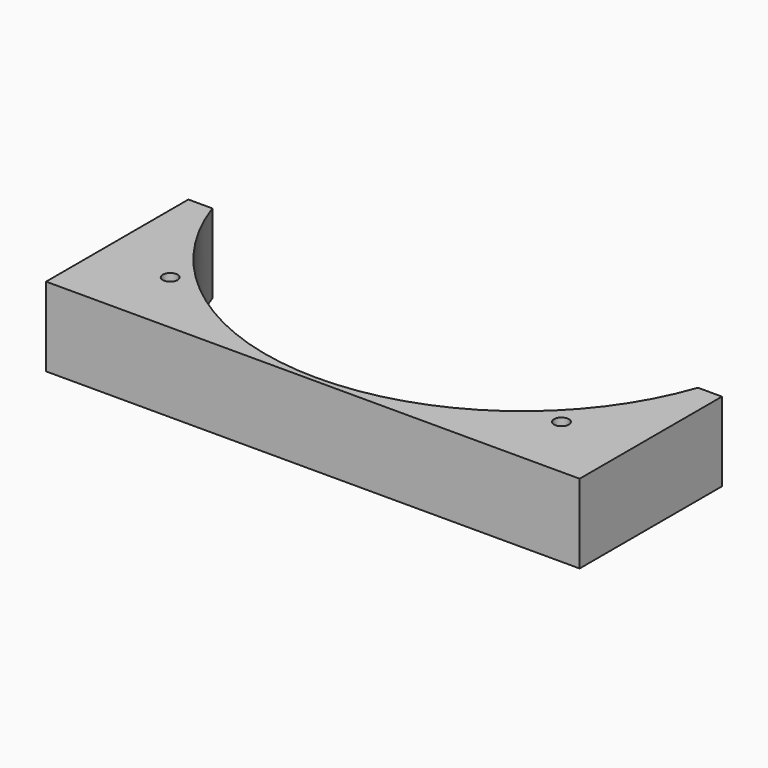
from build123d import *

# Parameters (mm, degrees)
CYLINDER1016_R               = 1.5
CYLINDER1016_DEPTH           = 50
CYLINDER1016_PLACEMENT_ANGLE = 45
CYLINDER1012_R               = 1.5
CYLINDER1012_DEPTH           = 50
CYLINDER1012_PLACEMENT_ANGLE = 135
CYLINDER1014_R               = 1.5
CYLINDER1014_DEPTH           = 50
CYLINDER1017_R               = 1.5
CYLINDER1017_DEPTH           = 50
CYLINDER1017_PLACEMENT_ANGLE = 225
CYLINDER1018_R               = 1.5
CYLINDER1018_DEPTH           = 50
CYLINDER1013_R               = 1.5
CYLINDER1013_DEPTH           = 50
CYLINDER1013_PLACEMENT_ANGLE = 45
CYLINDER1015_R               = 1.5
CYLINDER1015_DEPTH           = 50
CYLINDER1011_R               = 52
CYLINDER1011_DEPTH           = 16
BOX416_W                     = 108
BOX416_H                     = 36
BOX416_DEPTH                 = 16


with BuildPart() as obj1:
    # Cylinder1016 → Cylinder1016 (new body)
    with BuildSketch(Plane.XY):
        Circle(CYLINDER1016_R)
    extrude(amount=CYLINDER1016_DEPTH)


with BuildPart() as obj1_1:
    # Cylinder1016 placement: moved
    add(obj1.part.moved(Location((39.59798, -39.59798, 2))).rotate(Axis((39.59798, -39.59798, 2), (0, 0, 1)), CYLINDER1016_PLACEMENT_ANGLE))


with BuildPart() as obj2:
    # Cylinder1012 → Cylinder1012 (new body)
    with BuildSketch(Plane.XY):
        Circle(CYLINDER1012_R)
    extrude(amount=CYLINDER1012_DEPTH)


with BuildPart() as obj2_1:
    # Cylinder1012 placement: moved
    add(obj2.part.moved(Location((39.59798, 39.59798, 2))).rotate(Axis((39.59798, 39.59798, 2), (0, 0, 1)), CYLINDER1012_PLACEMENT_ANGLE))


with BuildPart() as obj3:
    # Cylinder1014 → Cylinder1014 (new body)
    with BuildSketch(Plane(origin=(0, 56, 2), x_dir=(-1, 0, 0), z_dir=(0, 0, 1))):
        Circle(CYLINDER1014_R)
    extrude(amount=CYLINDER1014_DEPTH)


with BuildPart() as obj4:
    # Cylinder1017 → Cylinder1017 (new body)
    with BuildSketch(Plane.XY):
        Circle(CYLINDER1017_R)
    extrude(amount=CYLINDER1017_DEPTH)


with BuildPart() as obj4_1:
    # Cylinder1017 placement: moved
    add(obj4.part.moved(Location((-39.59798, 39.59798, 2))).rotate(Axis((-39.59798, 39.59798, 2), (0, 0, 1)), CYLINDER1017_PLACEMENT_ANGLE))


with BuildPart() as obj5:
    # Cylinder1018 → Cylinder1018 (new body)
    with BuildSketch(Plane(origin=(-56, 0, 2), x_dir=(0, -1, 0), z_dir=(0, 0, 1))):
        Circle(CYLINDER1018_R)
    extrude(amount=CYLINDER1018_DEPTH)


with BuildPart() as obj6:
    # Cylinder1013 → Cylinder1013 (new body)
    with BuildSketch(Plane.XY):
        Circle(CYLINDER1013_R)
    extrude(amount=CYLINDER1013_DEPTH)


with BuildPart() as obj6_1:
    # Cylinder1013 placement: moved
    add(obj6.part.moved(Location((-39.59798, -39.59798, 2))).rotate(Axis((-39.59798, -39.59798, 2), (0, 0, -1)), CYLINDER1013_PLACEMENT_ANGLE))


with BuildPart() as compound817:
    # Cylinder1015 → Cylinder1015 (new body)
    with BuildSketch(Plane(origin=(0, -56, 2), x_dir=(1, 0, 0), z_dir=(0, 0, 1))):
        Circle(CYLINDER1015_R)
    extrude(amount=CYLINDER1015_DEPTH)

    # Compound817: union obj1, obj2, obj3, obj4, obj5, obj6
    add(obj1_1.part)
    add(obj2_1.part)
    add(obj3.part)
    add(obj4_1.part)
    add(obj5.part)
    add(obj6_1.part)


with BuildPart() as obj7:
    # Cylinder1011 → Cylinder1011 (new body)
    with BuildSketch(Plane.XY.offset(20)):
        Circle(CYLINDER1011_R)
    extrude(amount=CYLINDER1011_DEPTH)


with BuildPart() as cut423:
    # Box416 → Box416 (new body)
    with BuildSketch(Plane(origin=(-54, -53, 20), x_dir=(1, 0, 0), z_dir=(0, 0, 1))):
        with Locations((54, 18)):
            Rectangle(BOX416_W, BOX416_H)
    extrude(amount=BOX416_DEPTH)

    # Cut424: cut obj7
    add(obj7.part, mode=Mode.SUBTRACT)


with BuildPart() as cut423_1:
    # Cut424 placement: moved
    add(cut423.part.moved(Location((0, 0, -10))))

    # Cut423: cut Compound817
    add(compound817.part, mode=Mode.SUBTRACT)


with BuildPart() as cut423_2:
    # Cut423 placement: moved
    add(cut423_1.part.moved(Location((0, 0, 6))))


solid = cut423_2.part
